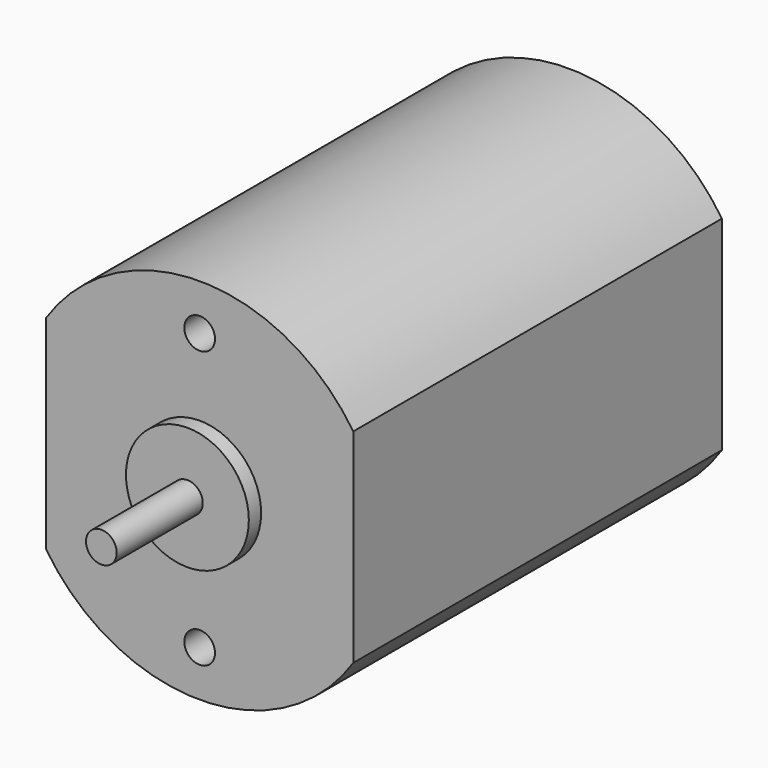
from build123d import *

# Parameters (mm, degrees)
F1_DEPTH = 7.5
F2_R     = 0.5
F3_DEPTH = 4
F4_R     = 2
F5_DEPTH = 0.5
F6_R     = 2
F7_DEPTH = 1
F8_R     = 0.5
F9_DEPTH = 5


with BuildPart() as f1:
    # F0 (on Front) → F1 (new body, symmetric)
    with BuildSketch(Plane.XZ):
        with BuildLine():
            Line((-5, 3.316625), (-5, -3.316625))
            ThreePointArc((-5, -3.316625), (0, -6), (5, -3.316625))
            Line((5, -3.316625), (5, 3.316625))
            ThreePointArc((5, 3.316625), (0, 6), (-5, 3.316625))
        make_face()
    extrude(amount=F1_DEPTH, both=True)

    # F2 (on face) → F3 (join)
    with BuildSketch(Plane.XZ.offset(7.5)):
        Circle(F2_R)
    extrude(amount=F3_DEPTH)

    # F4 (on face) → F5 (join)
    with BuildSketch(Plane.XZ.offset(7.5)):
        Circle(F4_R)
    extrude(amount=F5_DEPTH)

    # F6 (on face) → F7 (join)
    with BuildSketch(Plane(origin=(0, 7.5, 0), x_dir=(-1, 0, 0), z_dir=(0, 1, 0))):
        Circle(F6_R)
    extrude(amount=F7_DEPTH)

    # F8 (on face) → F9 (cut)
    with BuildSketch(Plane.XZ.offset(7.5)):
        with Locations((0, 4.5)):
            Circle(F8_R)
        with Locations((0, -4.5)):
            Circle(F8_R)
    extrude(amount=-F9_DEPTH, mode=Mode.SUBTRACT)


solid = f1.part
